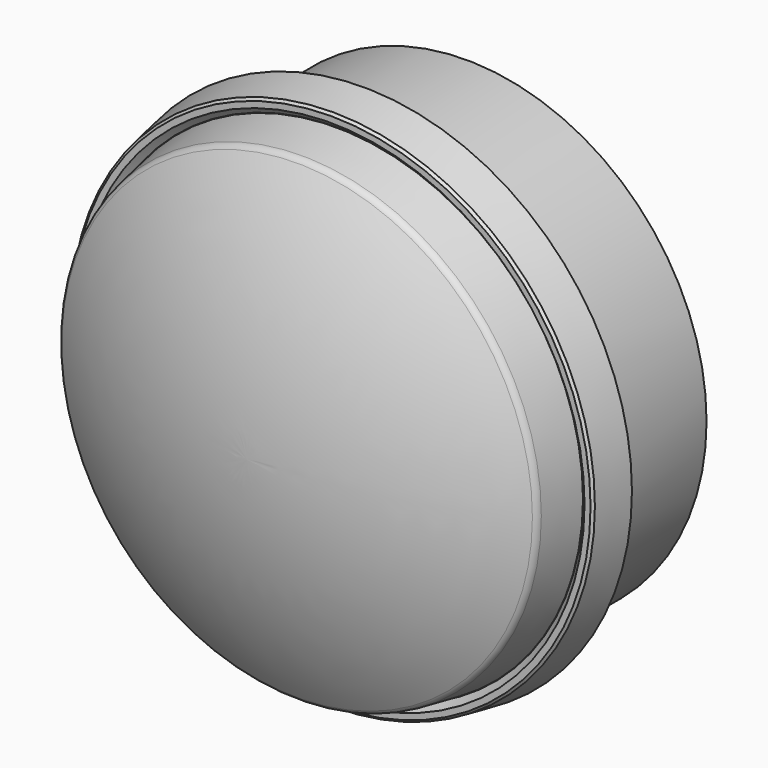
from build123d import *

# Parameters (mm, degrees)
F0_R     = 28
F1_DEPTH = 15


with BuildPart() as f1:
    # F0 (on Front) → F1 (new body)
    with BuildSketch(Plane.XZ):
        Circle(F0_R)
    extrude(amount=F1_DEPTH)

    # F2 (on Top) → F3 (revolve)
    with BuildSketch(Plane.XY):
        Polygon((28, -15), (0, -15), (0, -17), (30.647346, -17), (31, -15), align=None)
    revolve(axis=Axis((0, -7.5, 0), (0, 1, 0)))


with BuildPart() as f5:
    # F4 (on Top) → F5 (revolve)
    with BuildSketch(Plane.XY):
        with BuildLine():
            Line((30.294692, -19), (30.647346, -17))
            Line((30.647346, -17), (27.624206, -17))
            Line((27.624206, -17), (26.562435, -23.021603))
            ThreePointArc((26.562435, -23.021603), (26.392534, -23.427547), (26.06482, -23.721249))
            ThreePointArc((26.06482, -23.721249), (13.465941, -28.777586), (0, -30.5))
            Line((0, -30.5), (0, -32))
            ThreePointArc((0, -32), (14.196493, -30.136236), (27.430844, -24.671258))
            ThreePointArc((27.430844, -24.671258), (27.750837, -24.378678), (27.916909, -23.978156))
            Line((27.916909, -23.978156), (28.794692, -19))
            Line((28.794692, -19), (30.294692, -19))
        make_face()
    revolve(axis=Axis((0, -7.5, 0), (0, 1, 0)))


with BuildPart() as f7:
    # F6 (on Top) → F7 (revolve)
    with BuildSketch(Plane.XY):
        Polygon((30.23704, -19.707107), (30.519883, -19.424264), (31.3, -15), (31, -15), (30.647346, -17), (30.258643, -19.204445), (30.046511, -19.416577), (29.546511, -19.416577), (29.129933, -19), (28.829933, -19), (29.53704, -19.707107), align=None)
    revolve(axis=Axis((0, -7.5, 0), (0, 1, 0)))


solid = Compound([f1.part, f5.part, f7.part])
